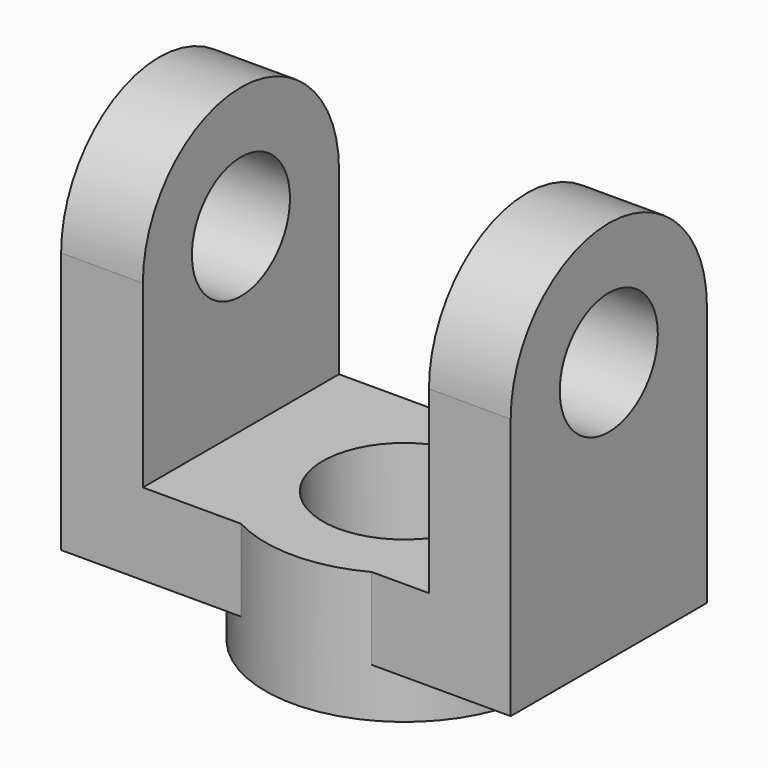
from build123d import *

# Parameters (mm, degrees)
F1_DEPTH      = 30
F2_R          = 17
F3_DEPTH      = 10
F3_DEPTH_BACK = 6
F4_R          = 10
F5_DEPTH      = 25
F5_DEPTH_BACK = 25
F6_R          = 7.5
F7_DEPTH      = 70


with BuildPart() as f1:
    # F0 (on Front) → F1 (new body)
    with BuildSketch(Plane.XZ):
        Polygon((0, 47), (0, 0), (55, 0), (55, 47), (45, 47), (45, 10), (10, 10), (10, 47), align=None)
    extrude(amount=F1_DEPTH)

    # F2 (on Top) → F3 (join, two sides)
    with BuildSketch(Plane.XY) as f3_sk:
        with Locations((30, -15)):
            Circle(F2_R)
    extrude(amount=F3_DEPTH)
    extrude(f3_sk.sketch, amount=-F3_DEPTH_BACK)

    # F4 (on Top) → F5 (cut, two sides)
    with BuildSketch(Plane.XY) as f5_sk:
        with Locations((30, -15)):
            Circle(F4_R)
    extrude(amount=-F5_DEPTH, mode=Mode.SUBTRACT)
    extrude(f5_sk.sketch, amount=F5_DEPTH_BACK, mode=Mode.SUBTRACT)

    # F6 (on Right) → F7 (cut)
    with BuildSketch(Plane.YZ):
        with BuildLine():
            ThreePointArc((-30, 32), (-25.6066017178, 42.6066017178), (-15, 47))
            Line((-15, 47), (-30, 47))
            Line((-30, 47), (-30, 32))
        make_face()
        with BuildLine():
            ThreePointArc((-15, 47), (-4.3933982822, 42.6066017178), (0, 32))
            Line((0, 32), (0, 47))
            Line((0, 47), (-15, 47))
        make_face()
        with Locations((-15, 32)):
            Circle(F6_R)
    extrude(amount=F7_DEPTH, mode=Mode.SUBTRACT)


solid = f1.part
